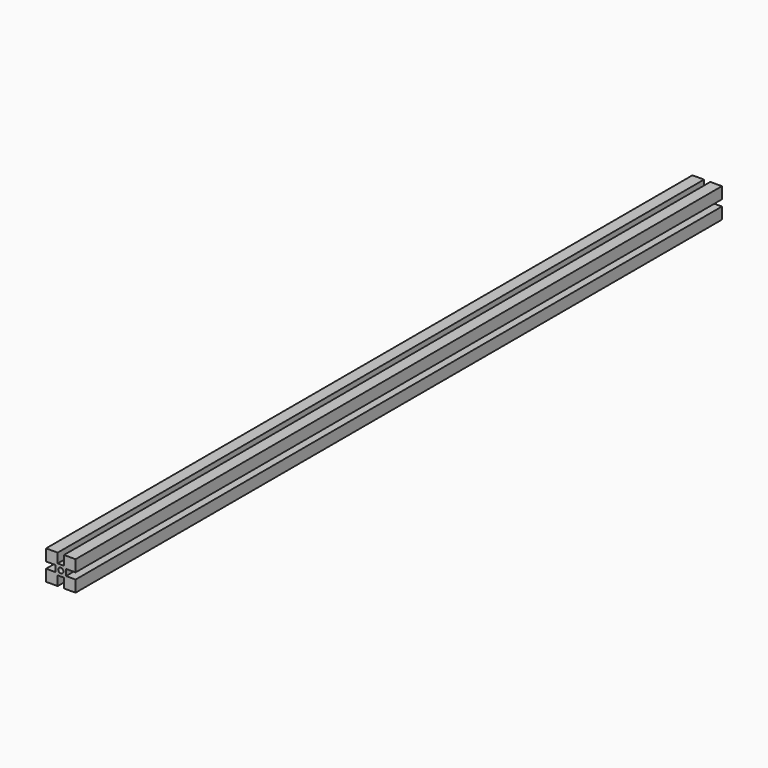
from build123d import *

# Parameters (mm, degrees)
F0_R     = 3.3274
F1_DEPTH = 1044.2448


with BuildPart() as f1:
    # F0 (on Front) → F1 (new body)
    with BuildSketch(Plane.XZ):
        Polygon((4.064, 19.05), (4.064, 6.7564), (-4.064, 6.7564), (-4.064, 19.05), (-19.05, 19.05), (-19.05, 4.064), (-6.7564, 4.064), (-6.7564, -4.064), (-19.05, -4.064), (-19.05, -19.05), (-4.064, -19.05), (-4.064, -6.7564), (4.064, -6.7564), (4.064, -19.05), (19.05, -19.05), (19.05, -4.064), (6.7564, -4.064), (6.7564, 4.064), (19.05, 4.064), (19.05, 19.05), align=None)
        Circle(F0_R, mode=Mode.SUBTRACT)
    extrude(amount=F1_DEPTH)


solid = f1.part
